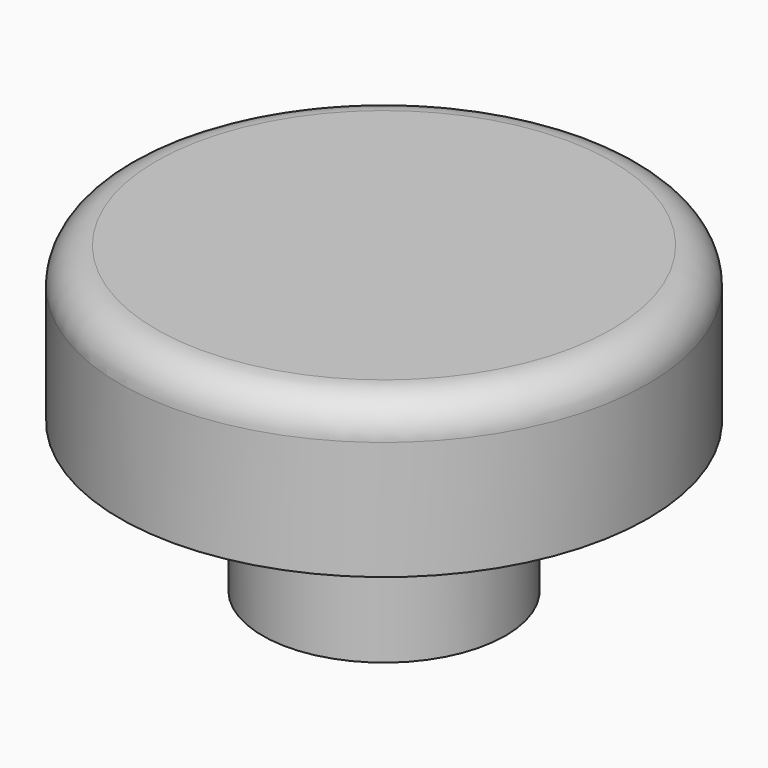
from build123d import *

# Parameters (mm, degrees)
F0_W     = 74.031934
F0_H     = 43.405589
F2_R     = 34.091138
F3_DEPTH = 41.91
F4_R     = 10.16


with BuildPart() as f1:
    # F0 (on Front) → F1 (revolve)
    with BuildSketch(Plane.XZ):
        with Locations((37.015967, 21.702794)):
            Rectangle(F0_W, F0_H)
    revolve(axis=Axis((0, 0, 21.702794), (0, 0, 1)))

    # F2 (on face) → F3 (join)
    with BuildSketch(Plane(origin=(0, 0, 0), x_dir=(1, 0, 0), z_dir=(0, 0, -1))):
        Circle(F2_R)
    extrude(amount=F3_DEPTH)

    # F4
    f4_edges = [f1.edges().sort_by_distance(p)[0] for p in [
        (-74.031934, 0, 43.405589),
    ]]
    fillet(f4_edges, radius=F4_R)


solid = f1.part
